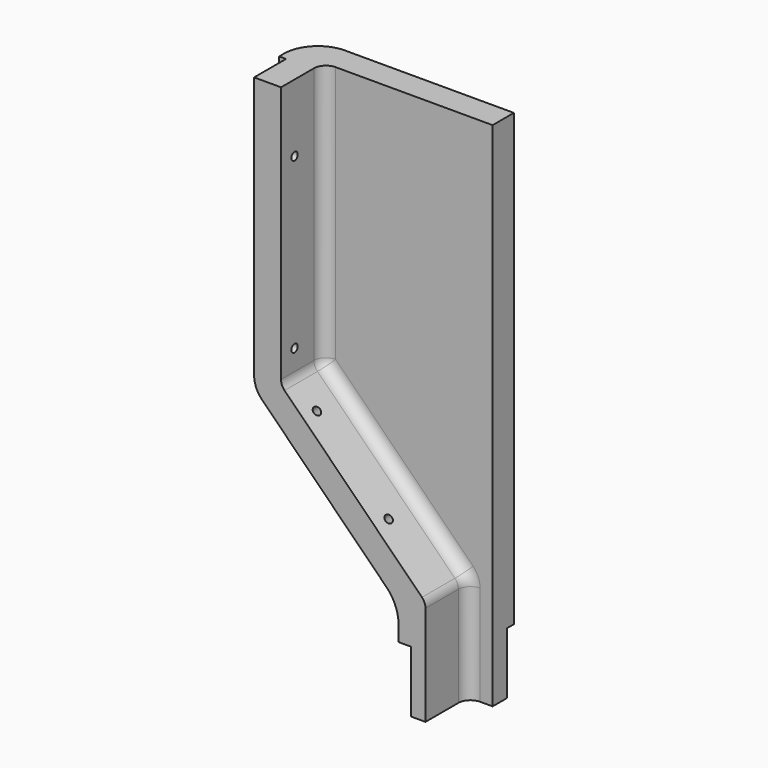
from build123d import *

# Parameters (mm, degrees)
F1_DEPTH  = 30
F3_DEPTH  = 20
F5_DEPTH  = 14.986
F6_R      = 10.112
F7_R      = 15.528
F8_R      = 12.7
F10_DEPTH = 23.114
F11_R     = 12.7
F12_R     = 6.35
F13_R     = 4.525
F14_R     = 1.5
F15_DEPTH = 73.613
F16_R     = 1.5
F17_DEPTH = 124.6851495458


with BuildPart() as f1:
    # F0 (on Front) → F1 (new body)
    with BuildSketch(Plane.XZ):
        Polygon((-15.57, 0), (0, 0), (0, 192.28), (-76.2, 192.28), (-76.2, 88.49), (-21.92, 34.21), (-21.92, 22.17), (-15.57, 22.17), align=None)
    extrude(amount=F1_DEPTH)

    # F2 (on face) → F3 (cut)
    with BuildSketch(Plane.XZ.offset(30)):
        Polygon((0, 192.28), (-63.5, 192.28), (-63.5, 93.7505122421), (-9.22, 39.4705122421), (-9.22, 0), (0, 0), align=None)
    extrude(amount=-F3_DEPTH, mode=Mode.SUBTRACT)

    # F4 (on face) → F5 (cut)
    with BuildSketch(Plane.XZ.offset(30)):
        Polygon((-73.612, 192.28), (-76.2, 192.28), (-76.2, 88.49), (-21.92, 34.21), (-21.92, 22.17), (-19.332, 22.17), (-19.332, 35.2819846994), (-73.612, 89.5619846994), align=None)
    extrude(amount=-F5_DEPTH, mode=Mode.SUBTRACT)

    # F6
    f6_edges = [f1.edges().sort_by_distance(p)[0] for p in [
        (-73.612, -22.507, 89.561985),
    ]]
    fillet(f6_edges, radius=F6_R)

    # F7
    f7_edges = [f1.edges().sort_by_distance(p)[0] for p in [
        (-19.332, -22.507, 35.281985),
    ]]
    fillet(f7_edges, radius=F7_R)

    # F8
    f8_edges = [f1.edges().sort_by_distance(p)[0] for p in [
        (-76.2, -7.507, 88.49),
        (-21.92, -7.507, 34.21),
    ]]
    fillet(f8_edges, radius=F8_R)

    # F9 (on face) → F10 (cut)
    with BuildSketch(Plane(origin=(0, 0, 0), x_dir=(1, 0, 0), z_dir=(0, 0, -1))):
        Polygon((-29.2910200357, 0), (0, 0), (0, 3.175), (-14.625, 3.175), (-14.625, 30), (-29.2910200357, 30), align=None)
    extrude(amount=-F10_DEPTH, mode=Mode.SUBTRACT)

    # F11
    f11_edges = [f1.edges().sort_by_distance(p)[0] for p in [
        (-76.2, 0, 143.015256),
        (-75.23327, 0, 88.890433),
        (-49.06, 0, 61.35),
        (-22.88673, 0, 33.809567),
        (-21.92, 0, 26.031744),
    ]]
    fillet(f11_edges, radius=F11_R)

    # F12
    f12_edges = [f1.edges().sort_by_distance(p)[0] for p in [
        (-14.625, -3.175, 11.557),
    ]]
    fillet(f12_edges, radius=F12_R)

    # F13
    f13_edges = [f1.edges().sort_by_distance(p)[0] for p in [
        (-9.22, -10, 19.735256),
        (-36.36, -10, 66.610512),
        (-63.5, -10, 143.015256),
        (-63.5, -20, 93.750512),
        (-9.22, -20, 39.470512),
    ]]
    fillet(f13_edges, radius=F13_R)

    # F14 (on face) → F15 (cut, through all)
    with BuildSketch(Plane(origin=(-73.612, 0, 0), x_dir=(0, -1, 0), z_dir=(-1, 0, 0))):
        with Locations((23.65, 166.88)):
            Circle(F14_R)
        with Locations((23.65, 103.38)):
            Circle(F14_R)
    extrude(amount=-F15_DEPTH, mode=Mode.SUBTRACT)

    # F16 (on face) → F17 (cut, through all)
    with BuildSketch(Plane(origin=(7.9749923497, 0, 7.9749923497), x_dir=(0.7071067812, 0, -0.7071067812), z_dir=(-0.7071067812, 0, -0.7071067812))):
        with Locations((-99.281846784, 23.65)):
            Circle(F16_R)
        with Locations((-61.181846784, 23.65)):
            Circle(F16_R)
    extrude(amount=-F17_DEPTH, mode=Mode.SUBTRACT)


solid = f1.part
